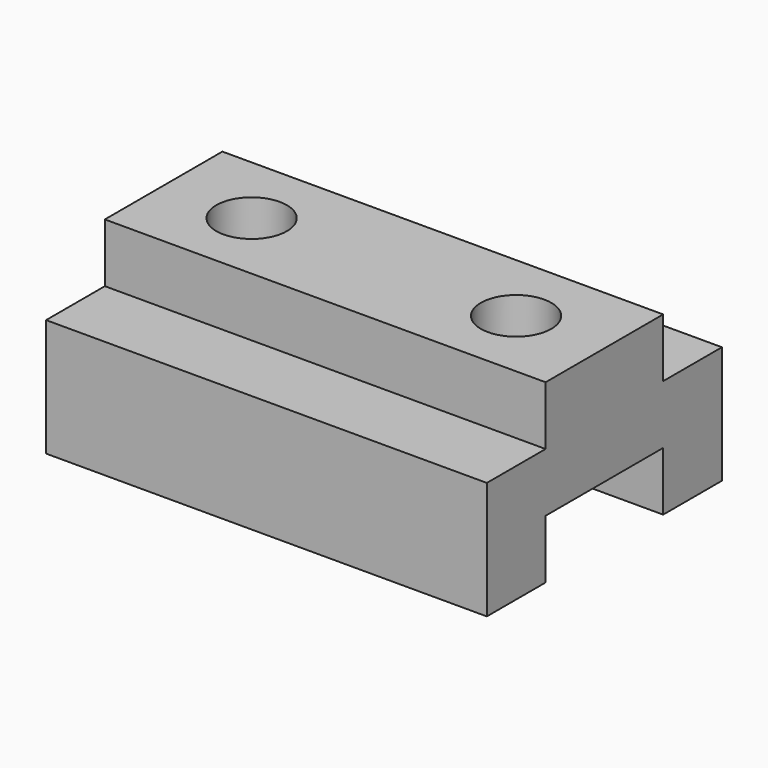
from build123d import *

# Parameters (mm, degrees)
F1_DEPTH = 150
F2_R     = 12
F3_DEPTH = 60.001


with BuildPart() as f1:
    # F0 (on Right) → F1 (new body)
    with BuildSketch(Plane.YZ):
        Polygon((0, 40), (0, 0), (25, 0), (25, 20), (75, 20), (75, 0), (100, 0), (100, 40), (75, 40), (75, 60), (25, 60), (25, 40), align=None)
    extrude(amount=F1_DEPTH)

    # F2 (on Top) → F3 (cut, through all)
    with BuildSketch(Plane.XY):
        with Locations((30, 49.936537)):
            Circle(F2_R)
        with Locations((120, 49.936537)):
            Circle(F2_R)
    extrude(amount=F3_DEPTH, mode=Mode.SUBTRACT)


solid = f1.part
